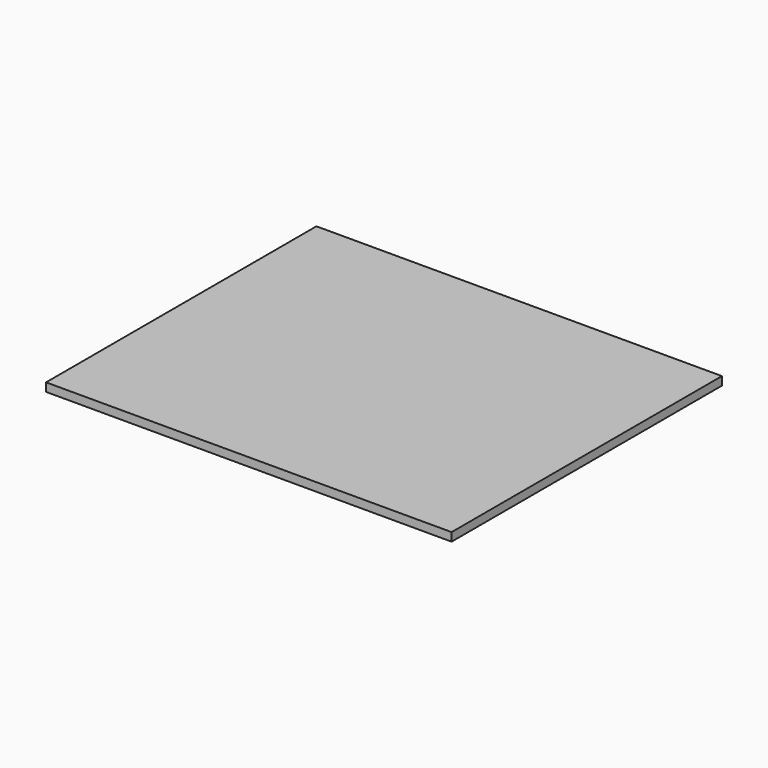
from build123d import *

# Parameters (mm, degrees)
F0_W     = 76.2
F0_H     = 114.3
F0_W_2   = 152.4
F0_H_2   = 101.6
F1_DEPTH = 6.35


with BuildPart() as f1:
    # F0 (on Top) → F1 (new body)
    with BuildSketch(Plane.XY):
        with Locations((-86.5632169724, 85.1043486208)):
            Rectangle(F0_W, F0_H)
        Polygon((103.9367830276, 142.2543486208), (-48.4632169724, 142.2543486208), (-48.4632169724, 27.9543486208), (27.7367830276, 27.9543486208), (103.9367830276, 27.9543486208), align=None)
        with Locations((142.0367830276, 85.1043486208)):
            Rectangle(F0_W, F0_H)
        Polygon((-48.4632169724, 27.9543486208), (-124.6632169724, 27.9543486208), (-124.6632169724, -111.7456513792), (27.7367830276, -111.7456513792), (27.7367830276, -10.1456513792), (180.1367830276, -10.1456513792), (180.1367830276, 27.9543486208), (103.9367830276, 27.9543486208), (27.7367830276, 27.9543486208), align=None)
        with Locations((103.9367830276, -60.9456513792)):
            Rectangle(F0_W_2, F0_H_2)
    extrude(amount=-F1_DEPTH)


solid = f1.part
